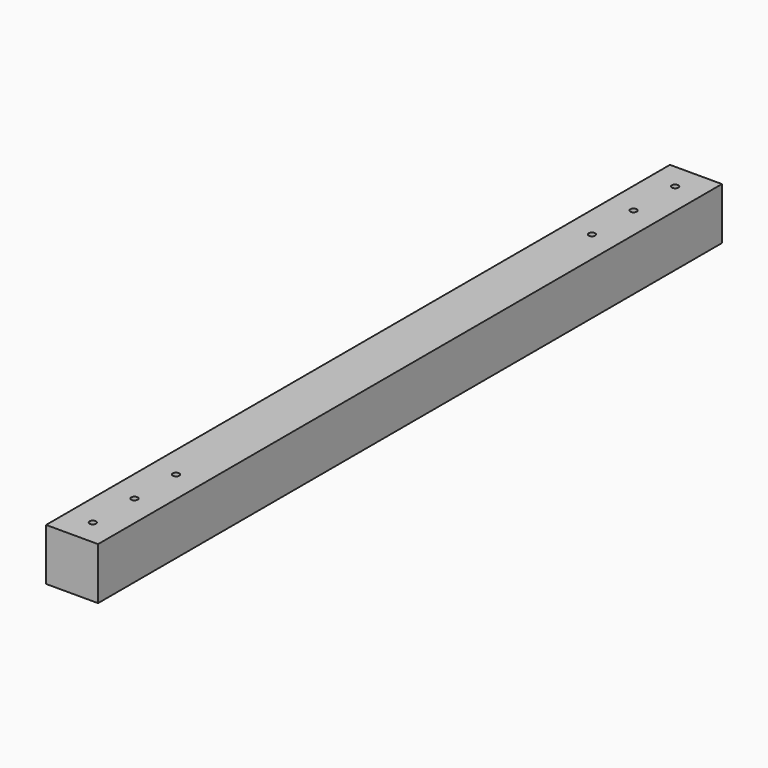
from build123d import *

# Parameters (mm, degrees)
F0_W     = 50.8
F0_H     = 762
F0_R     = 3.175
F1_DEPTH = 50.8


with BuildPart() as f1:
    # F0 (on Top) → F1 (new body)
    with BuildSketch(Plane.XY):
        with Locations((25.4, 381)):
            Rectangle(F0_W, F0_H)
        with Locations((25.4, 25.4)):
            Circle(F0_R, mode=Mode.SUBTRACT)
        with Locations((25.4, 76.2)):
            Circle(F0_R, mode=Mode.SUBTRACT)
        with Locations((25.4, 127)):
            Circle(F0_R, mode=Mode.SUBTRACT)
        with Locations((25.4, 635)):
            Circle(F0_R, mode=Mode.SUBTRACT)
        with Locations((25.4, 685.8)):
            Circle(F0_R, mode=Mode.SUBTRACT)
        with Locations((25.4, 736.6)):
            Circle(F0_R, mode=Mode.SUBTRACT)
    extrude(amount=F1_DEPTH)


solid = f1.part
